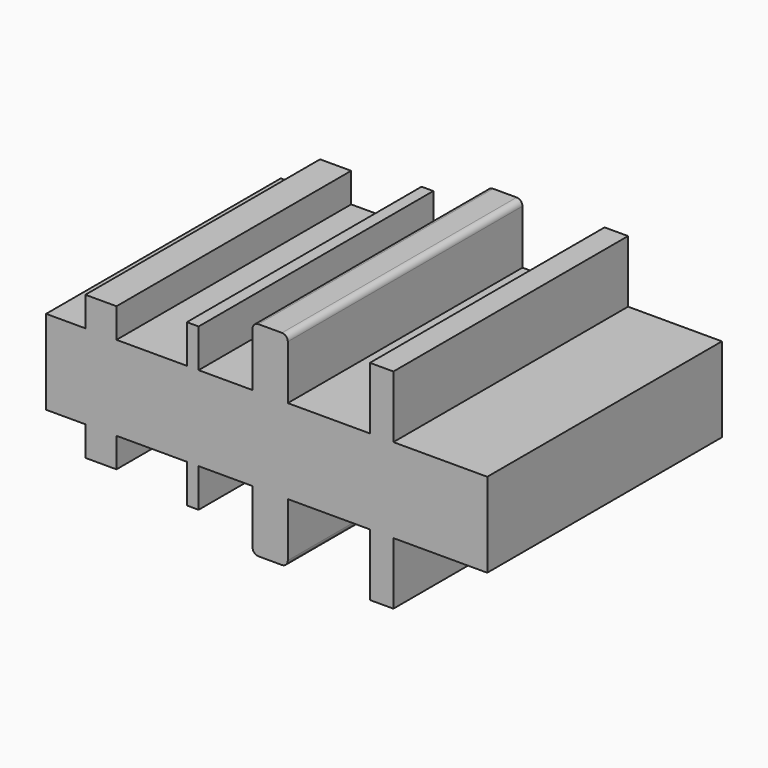
from build123d import *

# Parameters (mm, degrees)
F0_W     = 2
F0_H     = 5.299072
F0_W_2   = 1
F0_H_2   = 3.277826
F0_W_3   = 2.650631
F0_H_3   = 2.519859
F1_DEPTH = 25
F2_R     = 3.6
F2_R_2   = 2.25
F3_DEPTH = 25


with BuildPart() as f1:
    # F0 (on Front) → F1 (new body)
    with BuildSketch(Plane.XZ):
        Polygon((10.8, -3.6), (18.8, -3.6), (18.8, 3.6), (10.8, 3.6), (8.8, 3.6), (1.8, 3.6), (-1.2, 3.6), (-5.8, 3.6), (-6.8, 3.6), (-12.8, 3.6), (-15.450631, 3.6), (-18.8, 3.6), (-18.8, -3.6), (-15.450631, -3.6), (-12.8, -3.6), (-6.8, -3.6), (-5.8, -3.6), (-1.2, -3.6), (1.8, -3.6), (8.8, -3.6), align=None)
        with Locations((9.8, -6.249536)):
            Rectangle(F0_W, F0_H)
        with Locations((9.8, 6.249536)):
            Rectangle(F0_W, F0_H)
        with BuildLine():
            Line((1.8, -8.209581), (1.8, -3.6))
            Line((1.8, -3.6), (-1.2, -3.6))
            Line((-1.2, -3.6), (-1.2, -8.209581))
            ThreePointArc((-1.2, -8.209581), (-1.053553, -8.563134), (-0.7, -8.709581))
            Line((-0.7, -8.709581), (1.3, -8.709581))
            ThreePointArc((1.3, -8.709581), (1.653553, -8.563134), (1.8, -8.209581))
        make_face()
        with BuildLine():
            Line((-1.2, 3.6), (1.8, 3.6))
            Line((1.8, 3.6), (1.8, 8.209581))
            ThreePointArc((1.8, 8.209581), (1.653553, 8.563134), (1.3, 8.709581))
            Line((1.3, 8.709581), (-0.7, 8.709581))
            ThreePointArc((-0.7, 8.709581), (-1.053553, 8.563134), (-1.2, 8.209581))
            Line((-1.2, 8.209581), (-1.2, 3.6))
        make_face()
        with Locations((-6.3, -5.238913)):
            Rectangle(F0_W_2, F0_H_2)
        with Locations((-6.3, 5.238913)):
            Rectangle(F0_W_2, F0_H_2)
        with Locations((-14.125315, -4.859929)):
            Rectangle(F0_W_3, F0_H_3)
        with Locations((-14.125315, 4.859929)):
            Rectangle(F0_W_3, F0_H_3)
    extrude(amount=F1_DEPTH)

    # F2 (on face) → F3 (join)
    with BuildSketch(Plane(origin=(-18.8, 0, 0), x_dir=(0, -1, 0), z_dir=(-1, 0, 0))):
        with Locations((12.263373, 0)):
            Circle(F2_R)
        with Locations((12.263373, 0)):
            Circle(F2_R_2, mode=Mode.SUBTRACT)
    extrude(amount=-F3_DEPTH)


solid = f1.part
